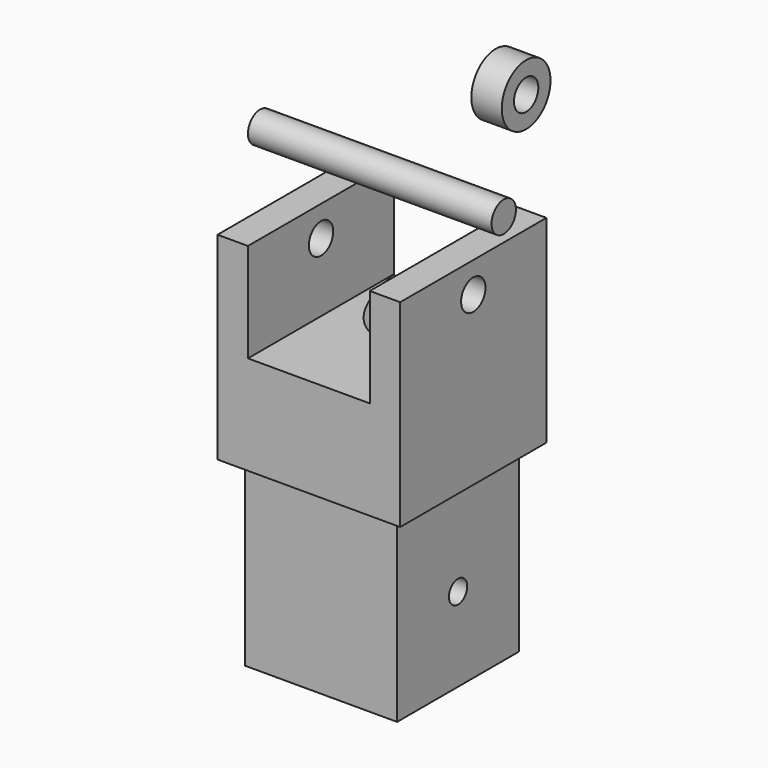
from build123d import *

# Parameters (mm, degrees)
F0_W      = 76.2
F0_H      = 76.2
F1_DEPTH  = 41.275
F2_W      = 50.8
F2_H      = 41.275
F3_DEPTH  = 38.1
F4_R      = 6.35
F5_DEPTH  = 38.1
F9_W      = 63.5
F9_H      = 63.5
F10_DEPTH = 76.2
F12_DEPTH = 69.851
F13_R     = 6.35
F14_DEPTH = 50.8
F15_R     = 12.7
F15_R_2   = 6.35
F16_DEPTH = 6.35


with BuildPart() as f1:
    # F0 (on Top) → F1 (new body, symmetric)
    with BuildSketch(Plane.XY):
        Rectangle(F0_W, F0_H)
    extrude(amount=F1_DEPTH, both=True)

    # F2 (on Front) → F3 (cut, symmetric)
    with BuildSketch(Plane.XZ):
        with Locations((0, 20.6375)):
            Rectangle(F2_W, F2_H)
    extrude(amount=F3_DEPTH, both=True, mode=Mode.SUBTRACT)

    # F4 (on Right) → F5 (cut, symmetric)
    with BuildSketch(Plane.YZ):
        with Locations((0, 28.575)):
            Circle(F4_R)
    extrude(amount=F5_DEPTH, both=True, mode=Mode.SUBTRACT)

    # F8: sweep along a path in F6
    with BuildLine(Plane.YZ) as f8_path:
        Line((38.1, -18.809034), (-37.708998, 18.427124))
    # F7 (on face) → F8 (sweep, cut)
    with BuildSketch(Plane(origin=(0, 38.1, 0), x_dir=(-1, 0, 0), z_dir=(0, 1, 0))):
        with BuildLine():
            Line((25.4, 0), (-25.4, 0))
            ThreePointArc((-25.4, 0), (0, -18.809034), (25.4, 0))
        make_face()
    sweep(path=f8_path.line, mode=Mode.SUBTRACT)

    # F9 (on face) → F10 (join)
    with BuildSketch(Plane(origin=(0, 0, -41.275), x_dir=(1, 0, 0), z_dir=(0, 0, -1))):
        Rectangle(F9_W, F9_H)
    extrude(amount=F10_DEPTH)

    # F11 (on face) → F12 (cut, through all)
    with BuildSketch(Plane(origin=(-31.75, 0, 0), x_dir=(0, -1, 0), z_dir=(-1, 0, 0))):
        with BuildLine():
            ThreePointArc((4.7625, -82.55), (3.367596, -79.182404), (0, -77.7875))
            ThreePointArc((0, -77.7875), (-3.367596, -85.917596), (4.7625, -82.55))
        make_face()
    extrude(amount=-F12_DEPTH, mode=Mode.SUBTRACT)


with BuildPart() as f14:
    # F13 (on Right) → F14 (new body, symmetric)
    with BuildSketch(Plane.YZ):
        with Locations((0, 61.297577)):
            Circle(F13_R)
    extrude(amount=F14_DEPTH, both=True)


with BuildPart() as f16:
    # F15 (on Right) → F16 (new body, symmetric)
    with BuildSketch(Plane.YZ):
        with Locations((67.244351, 64.341635)):
            Circle(F15_R)
        with Locations((67.244351, 64.341635)):
            Circle(F15_R_2, mode=Mode.SUBTRACT)
    extrude(amount=F16_DEPTH, both=True)


solid = Compound([f1.part, f14.part, f16.part])
